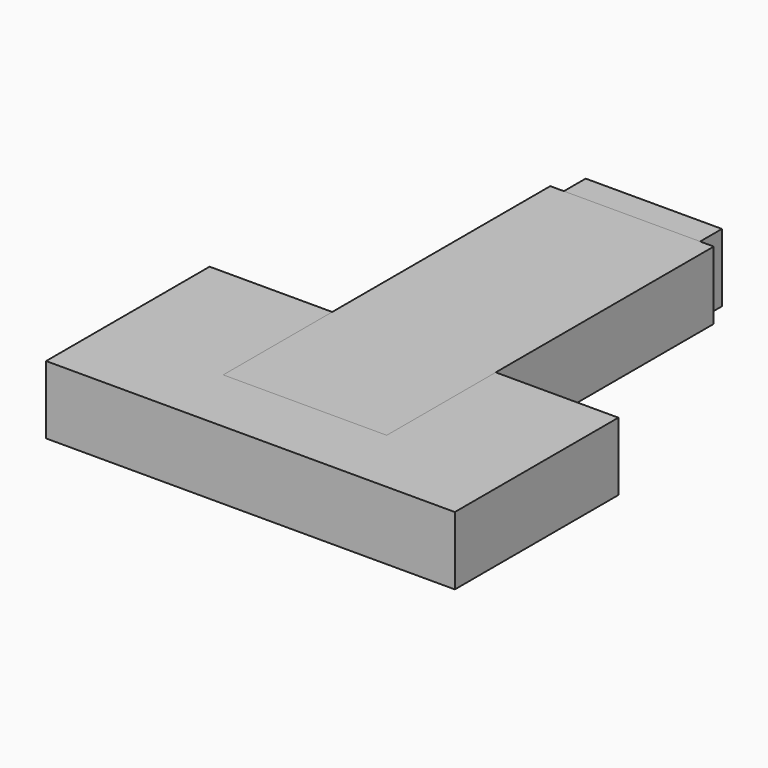
from build123d import *

# Parameters (mm, degrees)
BOX_W             = 30
BOX_H             = 15
BOX_DEPTH         = 5
BOX001_W          = 10
BOX001_H          = 30
BOX001_DEPTH      = 5
CYLINDER_R        = 1.15
CYLINDER_DEPTH    = 20
CYLINDER001_R     = 1.3
CYLINDER001_DEPTH = 20
BOX002_W          = 20
BOX002_H          = 2.6
BOX002_DEPTH      = 1.3
BOX003_W          = 12
BOX003_H          = 30
BOX003_DEPTH      = 5


with BuildPart() as cube:
    # Box → Box (new body)
    with BuildSketch(Plane(origin=(0, -10, -2.5), x_dir=(1, 0, 0), z_dir=(0, 0, 1))):
        with Locations((15, 7.5)):
            Rectangle(BOX_W, BOX_H)
    extrude(amount=BOX_DEPTH)


with BuildPart() as cube001:
    # Box001 → Box001 (new body)
    with BuildSketch(Plane(origin=(10, -3, -2.5), x_dir=(1, 0, 0), z_dir=(0, 0, 1))):
        with Locations((5, 15)):
            Rectangle(BOX001_W, BOX001_H)
    extrude(amount=BOX001_DEPTH)


with BuildPart() as cylinder:
    # Cylinder → Cylinder (new body)
    with BuildSketch(Plane(origin=(5, 0, 0), x_dir=(0, 0, -1), z_dir=(1, 0, 0))):
        Circle(CYLINDER_R)
    extrude(amount=CYLINDER_DEPTH)


with BuildPart() as cylinder001:
    # Cylinder001 → Cylinder001 (new body)
    with BuildSketch(Plane(origin=(5, 0, 0), x_dir=(0, 0, -1), z_dir=(1, 0, 0))):
        Circle(CYLINDER001_R)
    extrude(amount=CYLINDER001_DEPTH)


with BuildPart() as cube002:
    # Box002 → Box002 (new body)
    with BuildSketch(Plane(origin=(5, -1.3, 0), x_dir=(1, 0, 0), z_dir=(0, 0, 1))):
        with Locations((10, 1.3)):
            Rectangle(BOX002_W, BOX002_H)
    extrude(amount=BOX002_DEPTH)


with BuildPart() as cube003:
    # Box003 → Box003 (new body)
    with BuildSketch(Plane(origin=(9, -5, -2.5), x_dir=(1, 0, 0), z_dir=(0, 0, 1))):
        with Locations((6, 15)):
            Rectangle(BOX003_W, BOX003_H)
    extrude(amount=BOX003_DEPTH)


solid = Compound([cube.part, cube001.part, cylinder.part, cylinder001.part, cube002.part, cube003.part])
